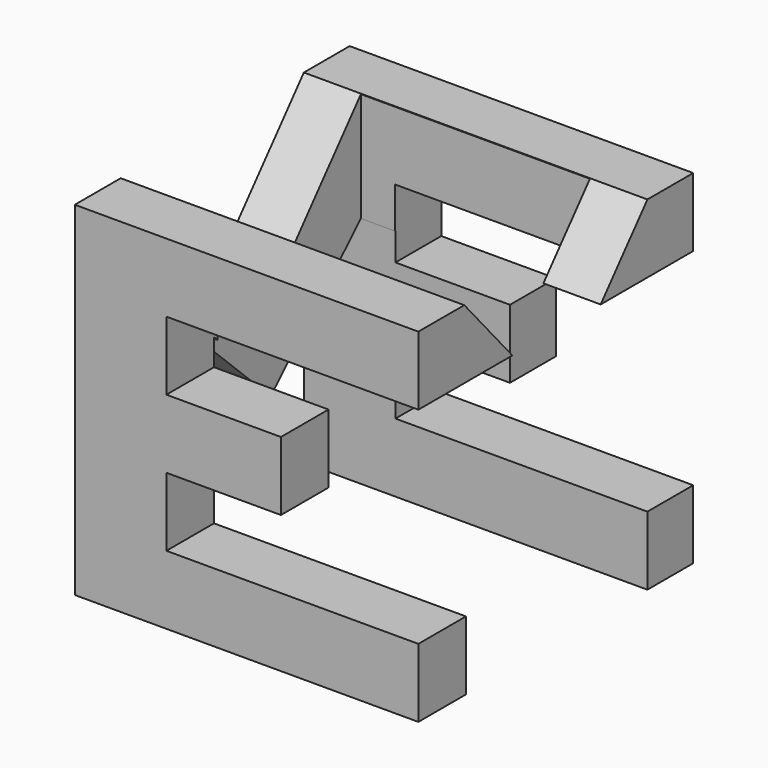
from build123d import *

# Parameters (mm, degrees)
F0_W      = 38.1
F0_H      = 38.1
F2_DEPTH  = 38.1
F4_DEPTH  = 38.1
F6_W      = 25.4
F6_H      = 24.634876
F8_DEPTH  = 38.1
F10_DEPTH = 38.1
F12_DEPTH = 38.1


with BuildPart() as f2:
    # F0 (on Front) → F2 (new body)
    with BuildSketch(Plane.XZ):
        with Locations((19.05, 19.05)):
            Rectangle(F0_W, F0_H)
    extrude(amount=F2_DEPTH)

    # F3 (on Front) → F4 (cut)
    with BuildSketch(Plane.XZ):
        Polygon((38.1, 7.62), (38.1, 30.48), (10.16, 30.48), (10.16, 22.86), (22.86, 22.86), (22.86, 15.24), (10.16, 15.24), (10.16, 7.62), align=None)
    extrude(amount=F4_DEPTH, mode=Mode.SUBTRACT)

    # F6 (on offset) → F8 (cut)
    with BuildSketch(Plane.XY.offset(38.1)):
        with Locations((19.05, -18.698502)):
            Rectangle(F6_W, F6_H)
    extrude(amount=-F8_DEPTH, mode=Mode.SUBTRACT)

    # F9 (on Right) → F10 (cut)
    with BuildSketch(Plane.YZ):
        Polygon((-18.861001, 23.382206), (-6.35, 38.1), (-31.735882, 38.1), align=None)
    extrude(amount=F10_DEPTH, mode=Mode.SUBTRACT)

    # F11 (on Right) → F12 (cut)
    with BuildSketch(Plane.YZ):
        Polygon((-31.504388, 0), (-6.35, 0), (-6.35, 25.959453), (-18.885972, 13.653007), (-31.504388, 25.785374), align=None)
    extrude(amount=F12_DEPTH, mode=Mode.SUBTRACT)


solid = f2.part
